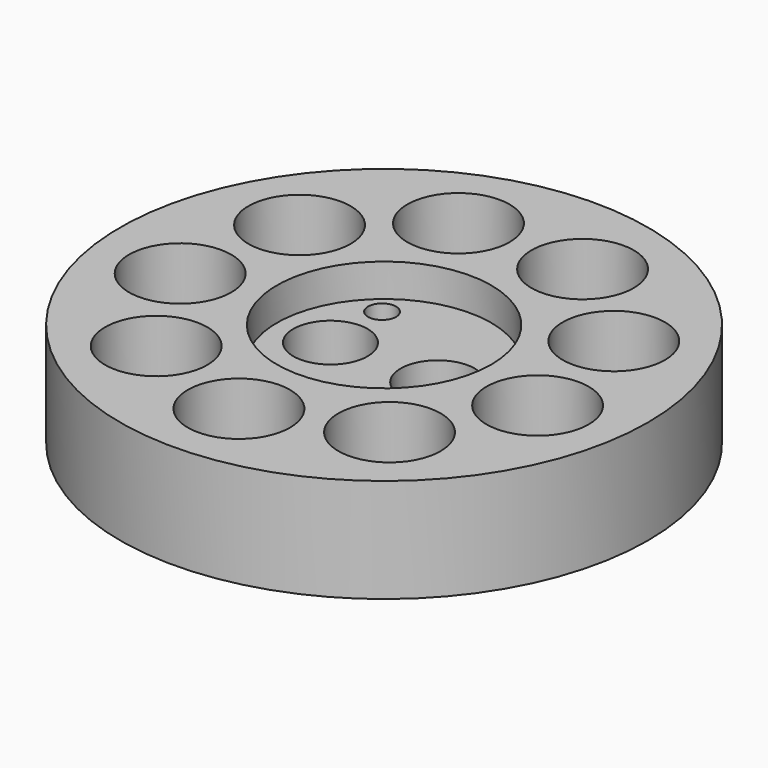
from build123d import *

# Parameters (mm, degrees)
SKETCH_R        = 16
SKETCH_R_2      = 2.25
PAD_DEPTH       = 6.3
SKETCH003_R     = 3.1
POCKET_DEPTH    = 6
SKETCH004_R     = 6.5
POCKET001_DEPTH = 2
SKETCH005_R     = 0.85
POCKET002_DEPTH = 6


with BuildPart() as part:
    # Sketch → Pad (new body)
    with BuildSketch(Plane.XY):
        Circle(SKETCH_R)
        with Locations((-3.25, 0)):
            Circle(SKETCH_R_2, mode=Mode.SUBTRACT)
        with Locations((3.25, 0)):
            Circle(SKETCH_R_2, mode=Mode.SUBTRACT)
    extrude(amount=PAD_DEPTH)

    # Sketch003 (on Face5 of Pad) → Pocket (cut)
    with BuildSketch(Plane.XY.offset(6.3)):
        with Locations((9.526279, 5.5)):
            Circle(SKETCH003_R)
        with Locations((3.762222, 10.336619)):
            Circle(SKETCH003_R)
        with Locations((-3.762222, 10.336619)):
            Circle(SKETCH003_R)
        with Locations((-9.526279, 5.5)):
            Circle(SKETCH003_R)
        with Locations((-10.832885, -1.91013)):
            Circle(SKETCH003_R)
        with Locations((-7.070664, -8.426489)):
            Circle(SKETCH003_R)
        with Locations((0, -11)):
            Circle(SKETCH003_R)
        with Locations((7.070664, -8.426489)):
            Circle(SKETCH003_R)
        with Locations((10.832885, -1.91013)):
            Circle(SKETCH003_R)
    extrude(amount=-POCKET_DEPTH, mode=Mode.SUBTRACT)

    # Sketch004 (on Face3 of Pocket) → Pocket001 (cut)
    with BuildSketch(Plane.XY.offset(6.3)):
        Circle(SKETCH004_R)
    extrude(amount=-POCKET001_DEPTH, mode=Mode.SUBTRACT)

    # Sketch005 (on Face3 of Pocket001) → Pocket002 (cut)
    with BuildSketch(Plane.XY.offset(6.3)):
        with Locations((3.32265, -4)):
            Circle(SKETCH005_R)
        with Locations((-3.32265, 4)):
            Circle(SKETCH005_R)
    extrude(amount=-POCKET002_DEPTH, mode=Mode.SUBTRACT)


solid = part.part
